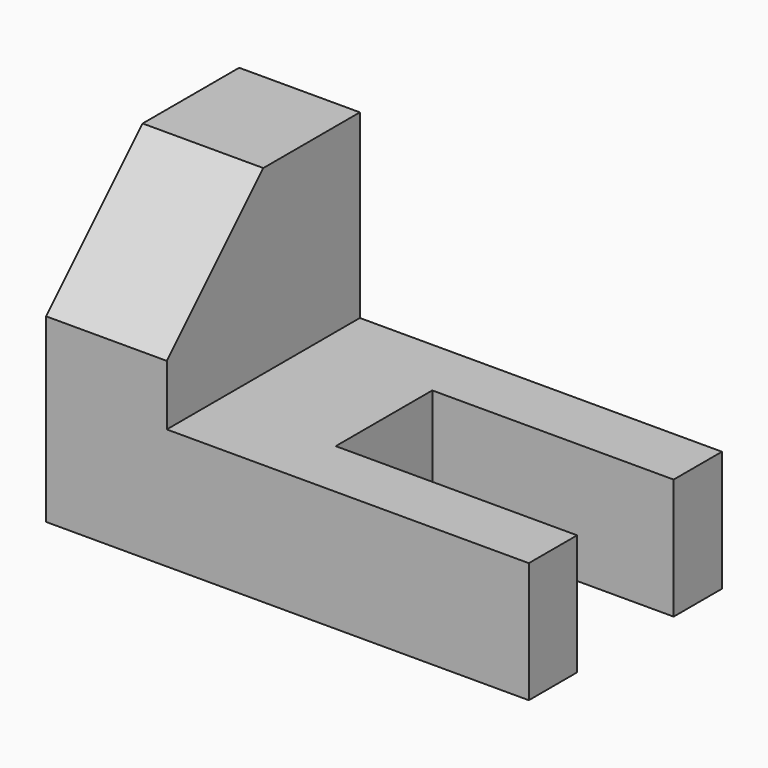
from build123d import *

# Parameters (mm, degrees)
F1_DEPTH = 50.8
F2_W     = 50.8
F2_H     = 101.6
F3_DEPTH = 76.2
F4_SIZE  = 50.8


with BuildPart() as f1:
    # F0 (on Top) → F1 (new body)
    with BuildSketch(Plane.XY):
        Polygon((101.6, 16.512535), (-101.6, 16.512535), (-101.6, -85.087465), (101.6, -85.087465), (101.6, -59.687465), (0, -59.687465), (0, -8.887465), (101.6, -8.887465), align=None)
    extrude(amount=F1_DEPTH)

    # F2 (on face) → F3 (join)
    with BuildSketch(Plane.XY.offset(50.8)):
        with Locations((-76.2, -34.287465)):
            Rectangle(F2_W, F2_H)
    extrude(amount=F3_DEPTH)

    # F4
    f4_edges = [f1.edges().sort_by_distance(p)[0] for p in [
        (-76.2, -85.087465, 127),
    ]]
    chamfer(f4_edges, length=F4_SIZE)


solid = f1.part
